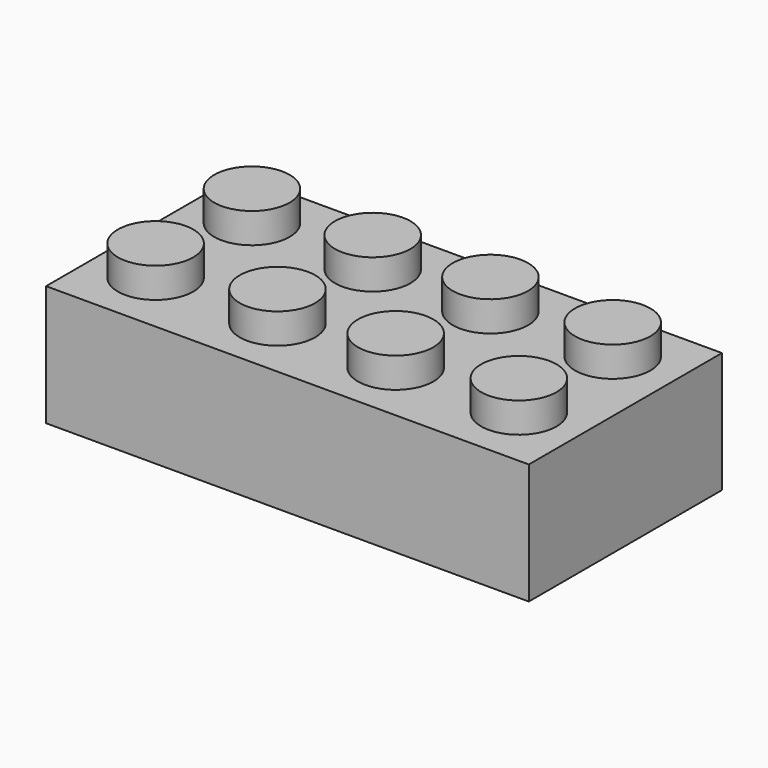
from build123d import *

# Parameters (mm, degrees)
F0_W     = 32
F0_H     = 16
F1_DEPTH = 8
F3_R     = 2.5
F4_DEPTH = 2
F5_T     = -1.5


with BuildPart() as f1:
    # F0 (on Top) → F1 (new body)
    with BuildSketch(Plane.XY):
        with Locations((-29.6650268137, 17.6427868192)):
            Rectangle(F0_W, F0_H)
    extrude(amount=F1_DEPTH)

    # F3 (on offset) → F4 (join)
    with BuildSketch(Plane.XY.offset(8)):
        with Locations((-17.830516119, 21.8000146745)):
            Circle(F3_R)
        with Locations((-25.9480242622, 21.8136548249)):
            Circle(F3_R)
        with Locations((-33.6414650083, 21.6792710125)):
            Circle(F3_R)
        with Locations((-25.83234096, 13.8193345813)):
            Circle(F3_R)
        with Locations((-33.7039940059, 13.8630643487)):
            Circle(F3_R)
        with Locations((-17.7091927273, 13.8717596604)):
            Circle(F3_R)
        with Locations((-41.8328493834, 13.9255942777)):
            Circle(F3_R)
        with Locations((-41.7674207673, 21.826757775)):
            Circle(F3_R)
    extrude(amount=F4_DEPTH)

    # F5
    f5_openings = [f1.faces().sort_by_distance(p)[0] for p in [
        (-29.665027, 17.642787, 0),
    ]]
    offset(amount=F5_T, openings=f5_openings, kind=Kind.INTERSECTION)


solid = f1.part
